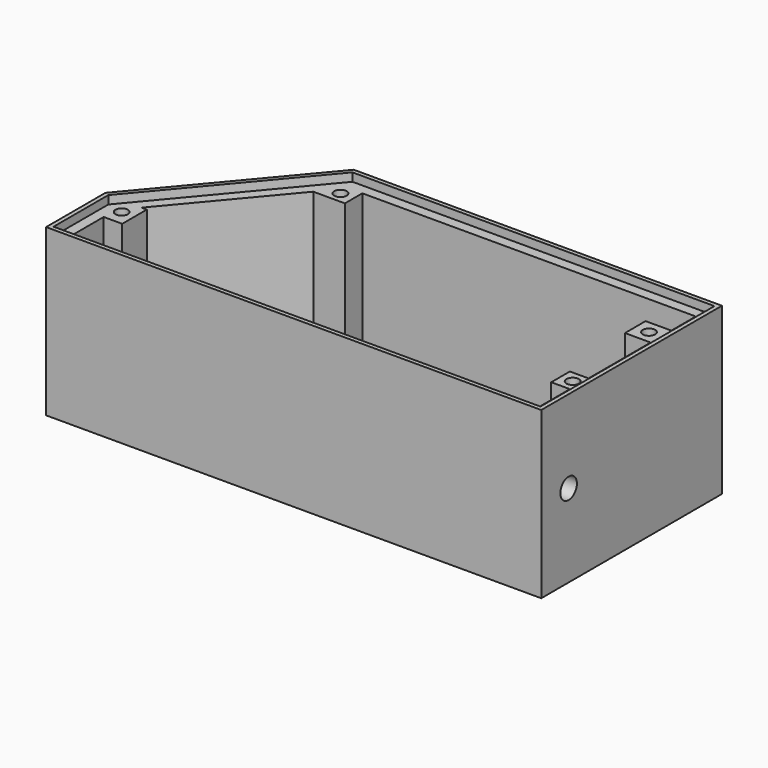
from build123d import *

# Parameters (mm, degrees)
F1_DEPTH = 72
F3_DEPTH = 4
F5_DEPTH = 4
F7_DEPTH = 25
F8_R     = 3
F9_DEPTH = 5.5


with BuildPart() as f1:
    # F0 (on Top) → F1 (new body)
    with BuildSketch(Plane.XY):
        Polygon((-232, 28.7712871801), (-232, 9), (-232, -7), (7, -7), (7, 102), (-170.6706311353, 102), align=None)
        Polygon((0, 9), (0, 0), (-11.2000130415, 0), (-29.7000130415, 0), (-48.2000130415, 0), (-66.7000130415, 0), (-85.2000130415, 0), (-103.7000130415, 0), (-122.2000130415, 0), (-140.7000130415, 0), (-159.2000130415, 0), (-177.7000130415, 0), (-196.2000130415, 0), (-214.7000130415, 0), (-225, 0), (-225, 9), (-225, 19.009443), (-216.0657793283, 19.009443), (-216.0657793283, 33.8660545808), (-218.6024326595, 33.8660545808), (-176.2169181556, 84.4753585209), (-160.9487113722, 84.4753585209), (-160.9487113722, 95), (0, 95), (0, 80.24520114), (-12.4263259421, 80.2028560212), (-12.3839236644, 67.7597565904), (0, 67.7597565904), (0, 30.28925322), (-9.0186540037, 30.28925322), (-9.0186540037, 19.0464295447), (0, 19.0464295447), align=None, mode=Mode.SUBTRACT)
    extrude(amount=F1_DEPTH)

    # F2 (on Top) → F3 (join)
    with BuildSketch(Plane.XY):
        Polygon((-170.6706311353, 102), (-232, 28.7712871801), (-232, -7), (7, -7), (7, 102), align=None)
    extrude(amount=-F3_DEPTH)

    # F4 (on face) → F5 (join)
    with BuildSketch(Plane.XY.offset(72)):
        Polygon((7, 102), (-170.6706311353, 102), (-232, 28.7712871801), (-232, -7), (7, -7), align=None)
        Polygon((-230, -5), (-230, 28.0444074988), (-169.7368749983, 100), (5, 100), (5, -5), align=None, mode=Mode.SUBTRACT)
    extrude(amount=F5_DEPTH)

    # F6 (on face) → F7 (cut)
    with BuildSketch(Plane.YZ.offset(7)):
        with BuildLine():
            Line((4.5232147723, 36), (14.5232147723, 36))
            ThreePointArc((14.5232147723, 36), (9.5232147723, 41), (4.5232147723, 36))
        make_face()
        with BuildLine():
            ThreePointArc((4.5232147723, 36), (9.5232147723, 31), (14.5232147723, 36))
            Line((14.5232147723, 36), (4.5232147723, 36))
        make_face()
    extrude(amount=-F7_DEPTH, mode=Mode.SUBTRACT)

    # F8 (on face) → F9 (cut)
    with BuildSketch(Plane.XY.offset(72)):
        with Locations((-167.3095971346, 89.7376792604)):
            Circle(F8_R)
        with Locations((-222.2577780485, 26.4377487904)):
            Circle(F8_R)
        with Locations((-5.7860915549, 73.9813063058)):
            Circle(F8_R)
        with Locations((-3.1610322185, 24.6678413823)):
            Circle(F8_R)
    extrude(amount=-F9_DEPTH, mode=Mode.SUBTRACT)


solid = f1.part
